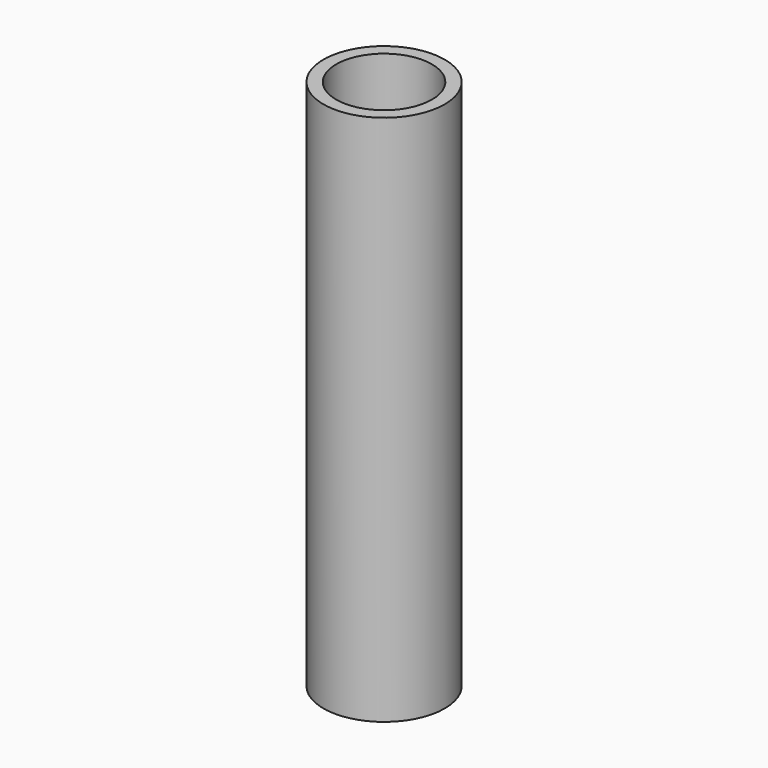
from build123d import *

# Parameters (mm, degrees)
CYLINDER_R     = 4.5
CYLINDER_DEPTH = 50
THICKNESS_T    = 1.2


with BuildPart() as part:
    # Cylinder → Cylinder (new body)
    with BuildSketch(Plane.XY):
        Circle(CYLINDER_R)
    extrude(amount=CYLINDER_DEPTH)

    # Thickness
    thickness_openings = [part.faces().sort_by_distance(p)[0] for p in [
        (0, 0, 0),
        (0, 0, 50),
    ]]
    offset(amount=THICKNESS_T, openings=thickness_openings)


solid = part.part
